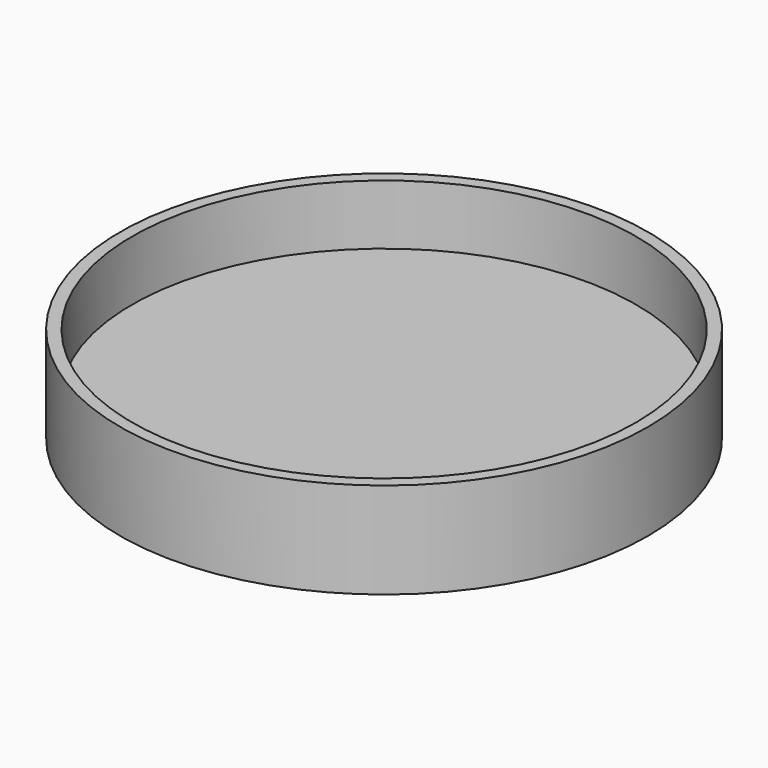
from build123d import *

# Parameters (mm, degrees)
F0_R     = 69.85
F1_DEPTH = 25.4
F2_R     = 66.675
F3_DEPTH = 15.875
F4_R     = 1.1303
F5_DEPTH = 5.08


with BuildPart() as f1:
    # F0 (on Top) → F1 (new body)
    with BuildSketch(Plane.XY):
        Circle(F0_R)
    extrude(amount=F1_DEPTH)

    # F2 (on face) → F3 (cut)
    with BuildSketch(Plane.XY.offset(25.4)):
        Circle(F2_R)
    extrude(amount=-F3_DEPTH, mode=Mode.SUBTRACT)

    # F4 (on face) → F5 (cut)
    with BuildSketch(Plane(origin=(0, 0, 0), x_dir=(1, 0, 0), z_dir=(0, 0, -1))):
        with Locations((0, 38.1)):
            Circle(F4_R)
        with Locations((-32.995568, 19.05)):
            Circle(F4_R)
        with Locations((-32.995568, -19.05)):
            Circle(F4_R)
        with Locations((0, -38.1)):
            Circle(F4_R)
        with Locations((32.995568, -19.05)):
            Circle(F4_R)
        with Locations((32.995568, 19.05)):
            Circle(F4_R)
    extrude(amount=-F5_DEPTH, mode=Mode.SUBTRACT)


solid = f1.part
